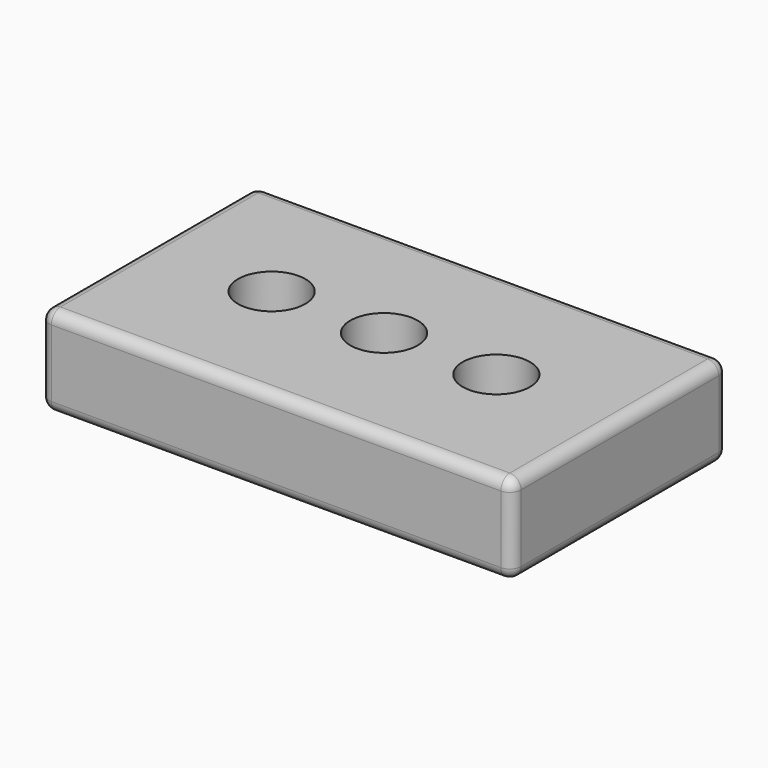
from build123d import *

# Parameters (mm, degrees)
F0_W     = 105
F0_H     = 60
F0_R     = 7.5
F1_DEPTH = 20
F2_R     = 2.5


with BuildPart() as f1:
    # F0 (on Top) → F1 (new body)
    with BuildSketch(Plane.XY):
        Rectangle(F0_W, F0_H)
        with Locations((-25, 0)):
            Circle(F0_R, mode=Mode.SUBTRACT)
        with BuildLine():
            ThreePointArc((-7.5, 0), (0, 7.5), (7.5, 0))
            ThreePointArc((7.5, 0), (0, -7.5), (-7.5, 0))
        make_face(mode=Mode.SUBTRACT)
        with BuildLine():
            ThreePointArc((32.5, 0), (25, -7.5), (17.5, 0))
            ThreePointArc((17.5, 0), (25, 7.5), (32.5, 0))
        make_face(mode=Mode.SUBTRACT)
    extrude(amount=F1_DEPTH)

    # F2
    f2_edges = [f1.edges().sort_by_distance(p)[0] for p in [
        (0, 30, 20),
        (-52.5, 30, 10),
        (0, 30, 0),
        (52.5, 30, 10),
        (0, -30, 0),
        (-52.5, 0, 0),
        (52.5, 0, 0),
        (-52.5, -30, 10),
        (0, -30, 20),
        (52.5, -30, 10),
        (-52.5, 0, 20),
        (52.5, 0, 20),
    ]]
    fillet(f2_edges, radius=F2_R)


solid = f1.part
